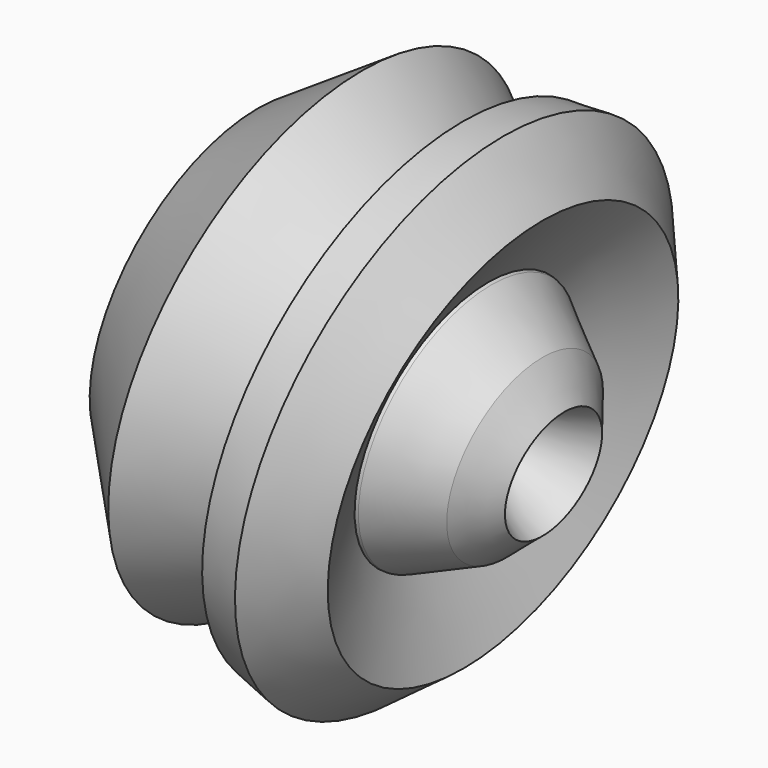
from build123d import *


with BuildPart() as f1:
    # F0 (on Front) → F1 (revolve)
    with BuildSketch(Plane.XZ):
        Polygon((21.1095083505, 54.8339299858), (9.6751926467, 26.1015407741), (-25.800511241, 60.4044944048), (-74.4696557522, 29.0334187448), (-62.4489672482, -52.472744137), (9.6751926467, -66.0002861983), (68.3127269149, -48.9544905722), (58.0511465669, -29.9601143936), (34.3029536307, -7.9082241282), (32.8370146453, -7.3218489997), (58.0511465669, 26.1015407741), (39.8735180497, 54.8339299858), align=None)
        Polygon((32.8370146453, -39.5724885166), (-29.9051366746, -51.8863685429), (-9.6751926467, -2.924034372), (-69.1922828555, 19.9446007609), (-18.7640096992, 34.6039831638), (-34.3029536307, 16.4263490587), (-4.3978160247, 9.0966587886), (2.0523162093, 17.8922880441), (30.0528650084, -34.3754086384), (32.5438305736, -36.3474227488), align=None, mode=Mode.SUBTRACT)
        Polygon((-9.6751926467, -2.924034372), (-29.9051366746, -51.8863685429), (32.8370146453, -39.5724885166), (30.0528650084, -34.3754086384), align=None)
        Polygon((-69.1922828555, 19.9446007609), (-9.6751926467, -2.924034372), (30.0528650084, -34.3754086384), (2.0523162093, 17.8922880441), (-4.3978160247, 9.0966587886), (-34.3029536307, 16.4263490587), (-18.7640096992, 34.6039831638), align=None)
    revolve(axis=Axis((-26.3868873008, 0, -59.2365151677), (-0.982861665, 0, 0.1843446431)))


solid = f1.part
